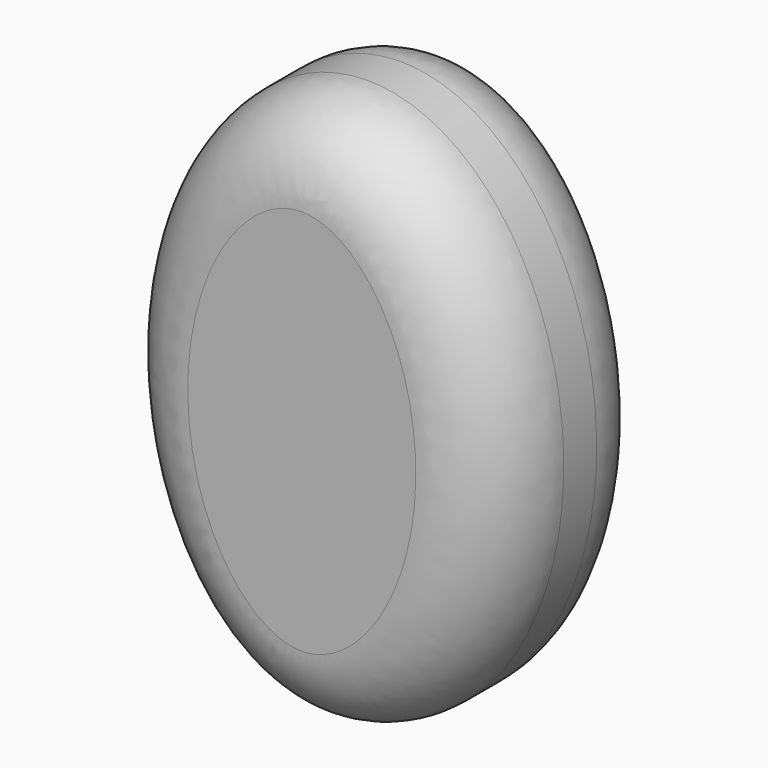
from build123d import *

# Parameters (mm, degrees)
F1_DEPTH = 12.7
F2_R     = 5.08


with BuildPart() as f1:
    # F0 (on Front) → F1 (new body)
    with BuildSketch(Plane.XZ):
        with BuildLine():
            add(Edge.make_bspline(
                [(0, 17.02805), (-20.999466, 17.02805), (-10.499733, -8.514025), (0, -34.056101), (10.499733, -8.514025), (20.999466, 17.02805), (0, 17.02805)],
                knots=[0, 0, 0, 2.094395, 2.094395, 4.18879, 4.18879, 6.283185, 6.283185, 6.283185], degree=2, weights=[1, 0.5, 1, 0.5, 1, 0.5, 1]))
        make_face()
    extrude(amount=F1_DEPTH)

    # F2
    f2_edges = [f1.edges().sort_by_distance(p)[0] for p in [
        (0, -12.7, -17.02805),
        (0, 0, -17.02805),
    ]]
    fillet(f2_edges, radius=F2_R)


solid = f1.part
